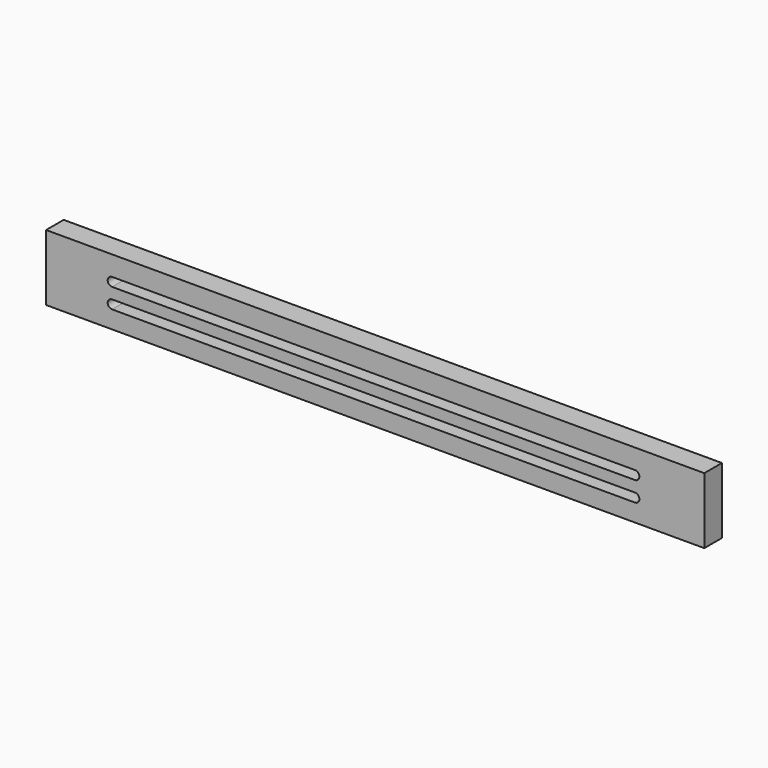
from build123d import *

# Parameters (mm, degrees)
F0_W     = 20
F0_H     = 60
F1_DEPTH = 598
F3_DEPTH = 25


with BuildPart() as f1:
    # F0 (on Right) → F1 (new body)
    with BuildSketch(Plane.YZ):
        Rectangle(F0_W, F0_H)
    extrude(amount=F1_DEPTH)

    # F2 (on face) → F3 (cut)
    with BuildSketch(Plane.XZ.offset(10)):
        with BuildLine():
            Line((535, 12), (60, 12))
            ThreePointArc((60, 12), (56, 8), (60, 4))
            Line((60, 4), (535, 4))
            ThreePointArc((535, 4), (539, 8), (535, 12))
        make_face()
        with BuildLine():
            Line((535, -6), (60, -6))
            ThreePointArc((60, -6), (56, -10), (60, -14))
            Line((60, -14), (535, -14))
            ThreePointArc((535, -14), (539, -10), (535, -6))
        make_face()
    extrude(amount=-F3_DEPTH, mode=Mode.SUBTRACT)


solid = f1.part
